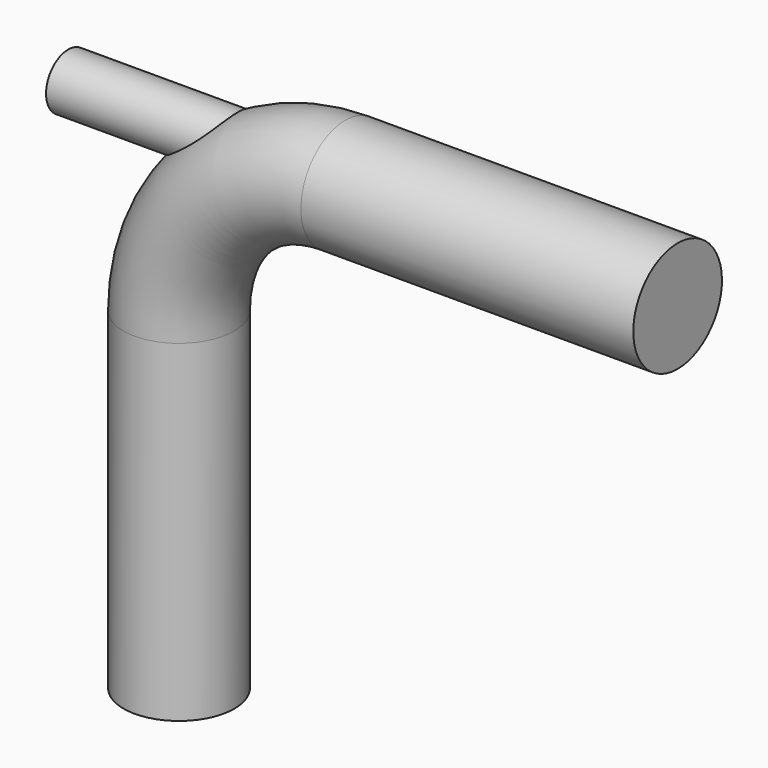
from build123d import *

# Parameters (mm, degrees)
F1_R     = 5
F4_R     = 2.5
F5_DEPTH = 30


with BuildPart() as f2:
    # F2: sweep along a path in F0
    with BuildLine(Plane.XZ) as f2_path:
        Line((0, 0), (0, 30))
        ThreePointArc((0, 30), (4.3933982822, 40.6066017178), (15, 45))
        Line((15, 45), (45, 45))
    # F1 (on Top) → F2 (sweep)
    with BuildSketch(Plane.XY):
        Circle(F1_R)
    sweep(path=f2_path.line)

    # F4 (on offset) → F5 (join)
    with BuildSketch(Plane.YZ.offset(-10)):
        with Locations((0, 45)):
            Circle(F4_R)
    extrude(amount=F5_DEPTH)


solid = f2.part
